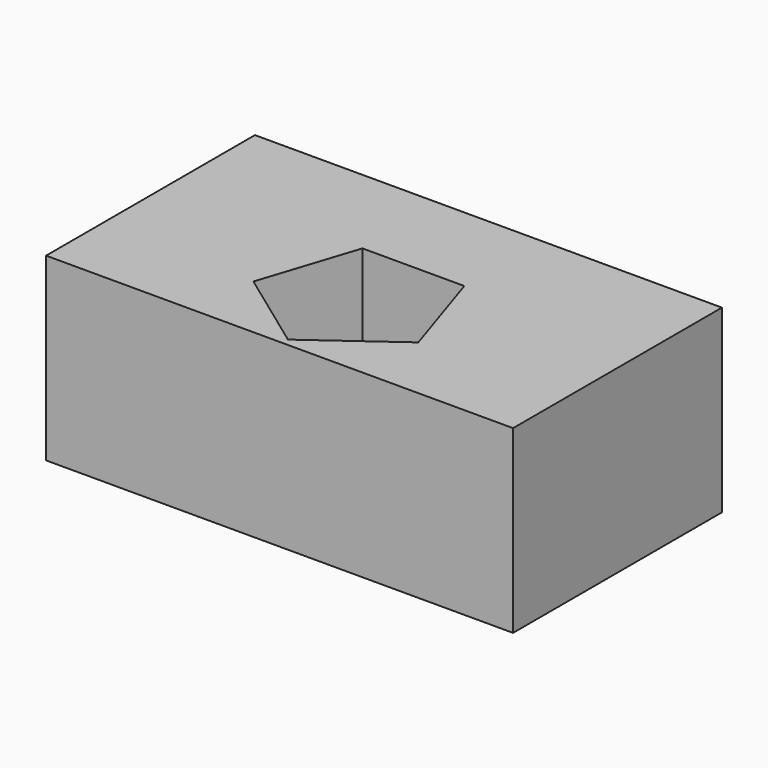
from build123d import *

# Parameters (mm, degrees)
F0_W     = 65.79759
F0_H     = 36.78322
F1_DEPTH = 25.4
F3_DEPTH = 25.4


with BuildPart() as f1:
    # F0 (on Top) → F1 (new body)
    with BuildSketch(Plane.XY):
        with Locations((-0.378352, 13.480502)):
            Rectangle(F0_W, F0_H)
    extrude(amount=F1_DEPTH)

    # F2 (on face) → F3 (cut)
    with BuildSketch(Plane.XY.offset(25.4)):
        Polygon((7.178156, 18.183567), (-7.178156, 18.183567), (-11.614501, 4.529902), (0, -3.908526), (11.614501, 4.529902), align=None)
    extrude(amount=-F3_DEPTH, mode=Mode.SUBTRACT)


solid = f1.part
